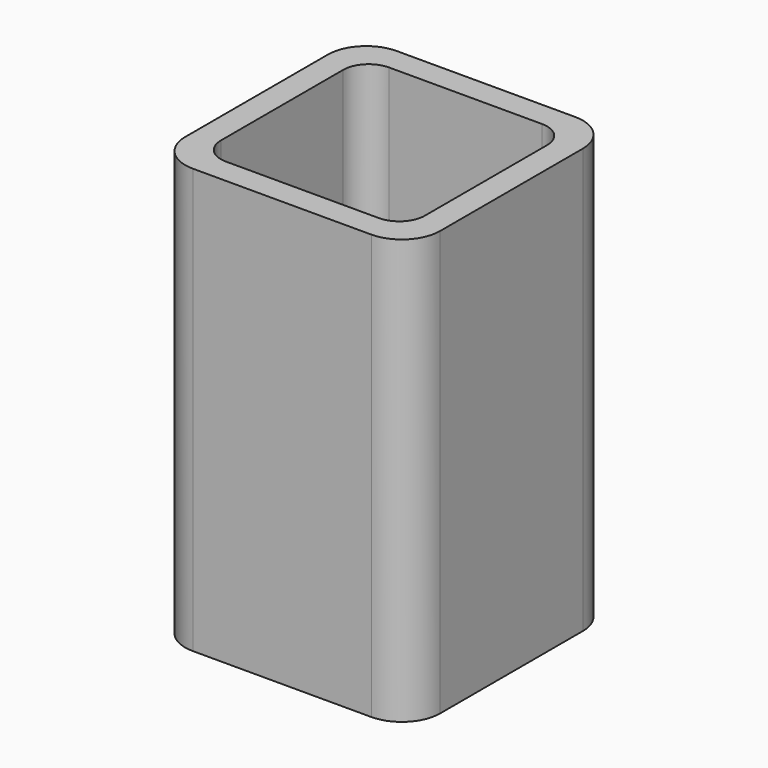
from build123d import *

# Parameters (mm, degrees)
EXTRUDE_DEPTH = 50


with BuildPart() as part:
    # Sketch → Extrude (new body)
    with BuildSketch(Plane.XY):
        with BuildLine():
            Line((-10.5, 15), (10.5, 15))
            ThreePointArc((15, 10.5), (13.681981, 13.681981), (10.5, 15))
            Line((15, 10.5), (15, -10.5))
            ThreePointArc((10.5, -15), (13.681981, -13.681981), (15, -10.5))
            Line((10.5, -15), (-10.5, -15))
            ThreePointArc((-15, -10.5), (-13.681981, -13.681981), (-10.5, -15))
            Line((-15, -10.5), (-15, 10.5))
            ThreePointArc((-10.5, 15), (-13.681981, 13.681981), (-15, 10.5))
        make_face()
        with BuildLine():
            Line((-9, 12), (9, 12))
            ThreePointArc((12, 9), (11.12132, 11.12132), (9, 12))
            Line((12, 9), (12, -9))
            ThreePointArc((9, -12), (11.12132, -11.12132), (12, -9))
            Line((9, -12), (-9, -12))
            ThreePointArc((-12, -9), (-11.12132, -11.12132), (-9, -12))
            Line((-12, -9), (-12, 9))
            ThreePointArc((-9, 12), (-11.12132, 11.12132), (-12, 9))
        make_face(mode=Mode.SUBTRACT)
    extrude(amount=EXTRUDE_DEPTH)


solid = part.part
